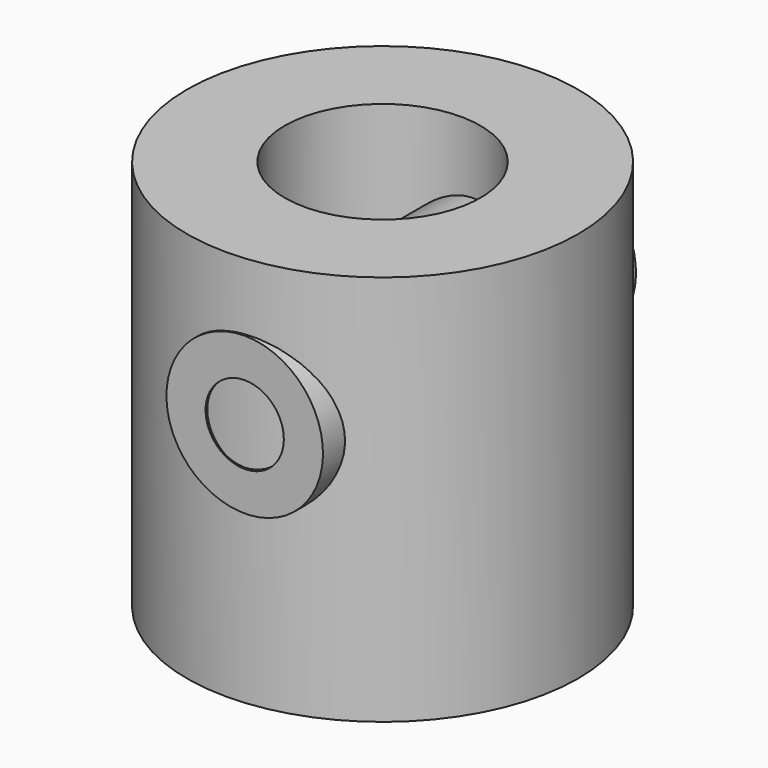
from build123d import *

# Parameters (mm, degrees)
F0_W = 31.75
F0_H = 127
F2_W = 127
F2_H = 12.7


with BuildPart() as f1:
    # F0 (on Front) → F1 (revolve)
    with BuildSketch(Plane.XZ):
        with Locations((-53.985089, -2.509642)):
            Rectangle(F0_W, F0_H)
    revolve(axis=Axis((-6.360089, 0, -2.509642), (0, 0, -1)))


with BuildPart() as f3:
    # F2 (on Right) → F3 (revolve)
    with BuildSketch(Plane.YZ):
        with Locations((-0.381, 32.974018)):
            Rectangle(F2_W, F2_H)
    revolve(axis=Axis((0, -0.381, 13.924018), (0, 1, 0)))


solid = Compound([f1.part, f3.part])
